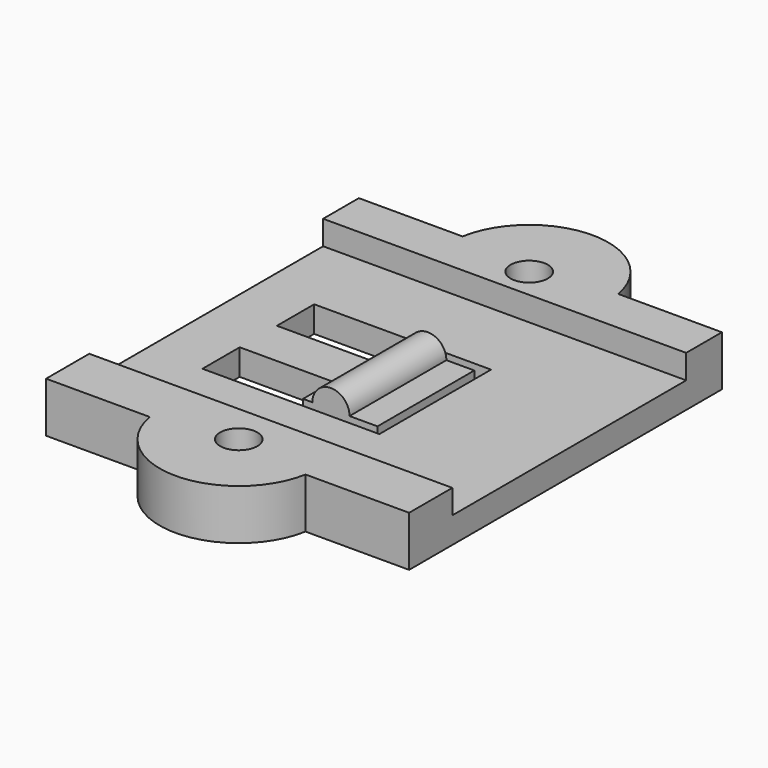
from build123d import *

# Parameters (mm, degrees)
F1_DEPTH       = 5.4
F2_W           = 31.4
F2_H           = 2.6
F3_DEPTH       = 40
F4_W           = 2
F4_H           = 13
F6_D           = 4
F6_CSINK_D     = 10
F6_CSINK_ANGLE = 90


with BuildPart() as f1:
    # F0 (on Top) → F1 (new body)
    with BuildSketch(Plane.XY):
        with BuildLine():
            ThreePointArc((19.5610458605, 16.0277770907), (11.1944455951, 23.0277770907), (2.8278453298, 16.0277770907))
            Line((2.8278453298, 16.0277770907), (19.5610458605, 16.0277770907))
        make_face()
        with BuildLine():
            Line((19.5610458605, -25.9722229093), (2.8278453298, -25.9722229093))
            ThreePointArc((2.8278453298, -25.9722229093), (11.1944455951, -32.9722229093), (19.5610458605, -25.9722229093))
        make_face()
        with BuildLine():
            Line((2.8278453298, 16.0277770907), (-8.3055544049, 16.0277770907))
            Line((-8.3055544049, 16.0277770907), (-8.3055544049, -25.9722229093))
            Line((-8.3055544049, -25.9722229093), (2.8278453298, -25.9722229093))
            ThreePointArc((2.8278453298, -25.9722229093), (10.4414855216, -16.0056385255), (19.6944455951, -24.4722229093))
            ThreePointArc((19.6944455951, -24.4722229093), (19.6610299789, -25.2251829828), (19.5610458605, -25.9722229093))
            Line((19.5610458605, -25.9722229093), (30.6944455951, -25.9722229093))
            Line((30.6944455951, -25.9722229093), (30.6944455951, 16.0277770907))
            Line((30.6944455951, 16.0277770907), (19.5610458605, 16.0277770907))
            ThreePointArc((19.5610458605, 16.0277770907), (19.6610299789, 15.2807371642), (19.6944455951, 14.5277770907))
            ThreePointArc((19.6944455951, 14.5277770907), (10.4414855216, 6.0611927069), (2.8278453298, 16.0277770907))
        make_face()
        Polygon((7.6944455951, -7.4722229093), (7.6944455951, -2.4722229093), (-2.3055544049, -2.4722229093), (-2.3055544049, 2.5277770907), (7.6944455951, 2.5277770907), (16.6944455951, 2.5277770907), (16.6944455951, 1.5277770907), (16.6944455951, -11.4722229093), (16.6944455951, -12.4722229093), (7.6944455951, -12.4722229093), (-2.3055544049, -12.4722229093), (-2.3055544049, -7.4722229093), align=None, mode=Mode.SUBTRACT)
        with BuildLine():
            ThreePointArc((19.6944455951, -24.4722229093), (10.4414855216, -16.0056385255), (2.8278453298, -25.9722229093))
            Line((2.8278453298, -25.9722229093), (19.5610458605, -25.9722229093))
            ThreePointArc((19.5610458605, -25.9722229093), (19.6610299789, -25.2251829828), (19.6944455951, -24.4722229093))
        make_face()
        with BuildLine():
            Line((19.5610458605, 16.0277770907), (2.8278453298, 16.0277770907))
            ThreePointArc((2.8278453298, 16.0277770907), (10.4414855216, 6.0611927069), (19.6944455951, 14.5277770907))
            ThreePointArc((19.6944455951, 14.5277770907), (19.6610299789, 15.2807371642), (19.5610458605, 16.0277770907))
        make_face()
        Polygon((15.6944455951, 1.5277770907), (7.6944455951, 1.5277770907), (7.6944455951, -2.4722229093), (7.6944455951, -7.4722229093), (7.6944455951, -11.4722229093), (15.6944455951, -11.4722229093), align=None)
    extrude(amount=F1_DEPTH)

    # F2 (on face) → F3 (cut)
    with BuildSketch(Plane.YZ.offset(30.6944455951)):
        with Locations((-4.4722229093, 4.1)):
            Rectangle(F2_W, F2_H)
    extrude(amount=-F3_DEPTH, mode=Mode.SUBTRACT)

    # F4 (on face) → F5 (revolve)
    with BuildSketch(Plane.XY.offset(2.8)):
        with Locations((9.6944455951, -4.9722229093)):
            Rectangle(F4_W, F4_H)
    revolve(axis=Axis((10.6944455951, -4.9722229093, 2.8), (0, 1, 0)))

    # F6 (through all)
    with Locations(Plane(origin=(0, 0, 0), x_dir=(1, 0, 0), z_dir=(0, 0, -1))):
        with Locations((11.1944455951, 24.4722229093), (11.1944455951, -14.5277770907)):
            CounterSinkHole(F6_D / 2, F6_CSINK_D / 2, counter_sink_angle=F6_CSINK_ANGLE)


solid = f1.part
